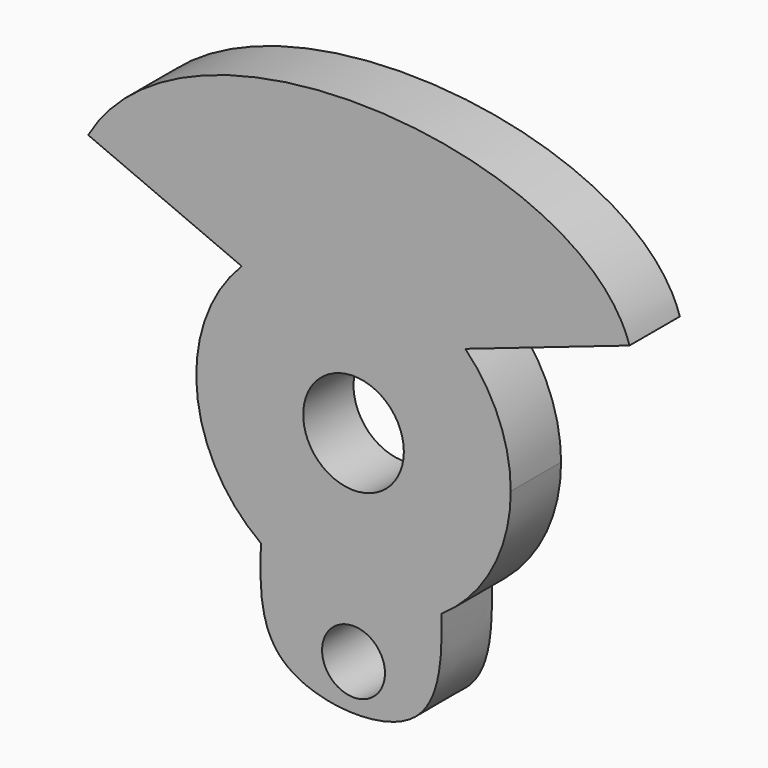
from build123d import *

# Parameters (mm, degrees)
F0_R     = 10.16
F0_R_2   = 6.35
F1_DEPTH = 12.7


with BuildPart() as f1:
    # F0 (on Front) → F1 (new body)
    with BuildSketch(Plane.XZ):
        with BuildLine():
            ThreePointArc((-22.5764605638, 22.324110921), (0, 31.75), (22.5764605638, 22.324110921))
            Line((22.5764605638, 22.324110921), (55.7279327263, 33.6904105914))
            add(Edge.make_bspline(
                [(-53.578904017, 35.5630292681), (-33.5322332568, 70.2029654889), (46.3976245244, 63.5476266624), (55.7279327263, 33.6904105914)],
                knots=[0, 0, 0, 0, 109.3228761949, 109.3228761949, 109.3228761949, 109.3228761949], degree=3))
            Line((-53.578904017, 35.5630292681), (-22.5764605638, 22.324110921))
        make_face()
        with BuildLine():
            ThreePointArc((17.7535295726, -26.3225129445), (28.0333467849, -14.9061721456), (31.75, 0))
            ThreePointArc((31.75, 0), (29.3672021386, 12.067723006), (22.5764605638, 22.324110921))
            ThreePointArc((22.5764605638, 22.324110921), (0, 31.75), (-22.5764605638, 22.324110921))
            ThreePointArc((-22.5764605638, 22.324110921), (-31.6476270633, -2.5475873414), (-18.7147767568, -25.6479946769))
            ThreePointArc((-18.7147767568, -25.6479946769), (-0.5871479887, -31.7445705159), (17.7535295726, -26.3225129445))
        make_face()
        Circle(F0_R, mode=Mode.SUBTRACT)
        with BuildLine():
            add(Edge.make_bspline(
                [(-18.7147767568, -25.6479946769), (-18.9355896144, -33.2121243406), (-19.321526262, -49.686071611), (16.9001065861, -52.1663001494), (17.9694969141, -34.8175484735), (17.7535295726, -26.3225129445)],
                knots=[0, 0, 0, 0, 0.3182872314, 0.6721361216, 1, 1, 1, 1], degree=3))
            ThreePointArc((17.7535295726, -26.3225129445), (-0.5871479887, -31.7445705159), (-18.7147767568, -25.6479946769))
        make_face()
        with Locations((0, -40.6298153102)):
            Circle(F0_R_2, mode=Mode.SUBTRACT)
    extrude(amount=F1_DEPTH)


solid = f1.part
